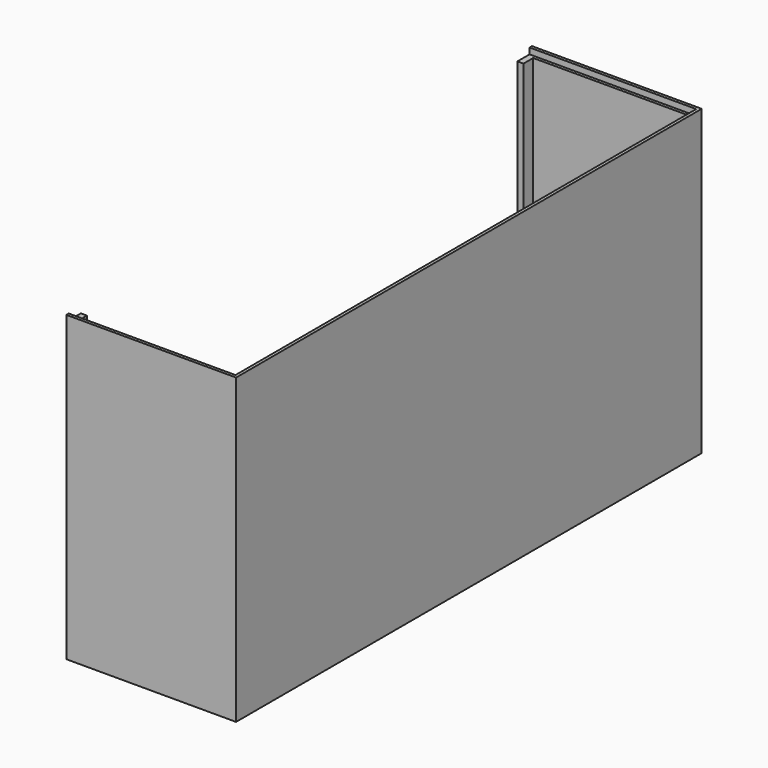
from build123d import *

# Parameters (mm, degrees)
F0_W      = 260
F0_H      = 960
F1_DEPTH  = 250
F2_T      = -10
F3_W      = 240
F3_H      = 10
F4_DEPTH  = 240
F5_W      = 10
F5_H      = 20
F5_H_2    = 10
F5_H_3    = 920
F6_DEPTH  = 250
F0_W_2    = 20
F7_DEPTH  = 250
F8_W      = 25
F8_H      = 75
F9_DEPTH  = 75
F10_W     = 25
F10_H     = 10
F10_W_2   = 900
F11_DEPTH = 275


with BuildPart() as f1:
    # F0 (on Top) → F1 (new body)
    with BuildSketch(Plane.XY):
        Rectangle(F0_W, F0_H)
    extrude(amount=F1_DEPTH)

    # F2
    f2_openings = [f1.faces().sort_by_distance(p)[0] for p in [
        (0, 0, 250),
    ]]
    offset(amount=F2_T, openings=f2_openings)

    # F3 (on face) → F4 (join)
    with BuildSketch(Plane.XY.offset(10)):
        with Locations((0, -165)):
            Rectangle(F3_W, F3_H)
        with Locations((0, 165)):
            Rectangle(F3_W, F3_H)
    extrude(amount=F4_DEPTH)

    # F5 (on face) → F6 (join)
    with BuildSketch(Plane.XY.offset(250)):
        with Locations((-145, -460)):
            Rectangle(F5_W, F5_H)
        Polygon((-150, -480), (120, -480), (120, -470), (-120, -470), (-140, -470), (-150, -470), align=None)
        Polygon((-150, -480), (120, -480), (120, -470), (-120, -470), (-140, -470), (-150, -470), align=None)
        with Locations((125, -475)):
            Rectangle(F5_W, F5_H_2)
        with Locations((125, -465)):
            Rectangle(F5_W, F5_H_2)
        with Locations((125, 0)):
            Rectangle(F5_W, F5_H_3)
        with Locations((125, 465)):
            Rectangle(F5_W, F5_H_2)
        with Locations((125, 475)):
            Rectangle(F5_W, F5_H_2)
        Polygon((-120, 470), (120, 470), (120, 480), (-150, 480), (-150, 470), (-140, 470), align=None)
        Polygon((-120, 470), (120, 470), (120, 480), (-150, 480), (-150, 470), (-140, 470), align=None)
        with Locations((-145, 460)):
            Rectangle(F5_W, F5_H)
    extrude(amount=F6_DEPTH)

    # F0 (on Top) → F7 (join)
    with BuildSketch(Plane.XY):
        with Locations((-140, 0)):
            Rectangle(F0_W_2, F0_H)
    extrude(amount=F7_DEPTH)

    # F8 (on face) → F9 (cut)
    with BuildSketch(Plane.XY.offset(250)):
        with Locations((-135, 320)):
            Rectangle(F8_W, F8_H)
        with Locations((-135, 0)):
            Rectangle(F8_W, F8_H)
        with Locations((-135, -320)):
            Rectangle(F8_W, F8_H)
    extrude(amount=-F9_DEPTH, mode=Mode.SUBTRACT)

    # F10 (on face) → F11 (cut)
    with BuildSketch(Plane(origin=(-150, 0, 0), x_dir=(0, -1, 0), z_dir=(-1, 0, 0))):
        with Locations((462.5, 495)):
            Rectangle(F10_W, F10_H)
        with Locations((-462.5, 495)):
            Rectangle(F10_W, F10_H)
        with Locations((0, 495)):
            Rectangle(F10_W_2, F10_H)
    extrude(amount=-F11_DEPTH, mode=Mode.SUBTRACT)


solid = f1.part
